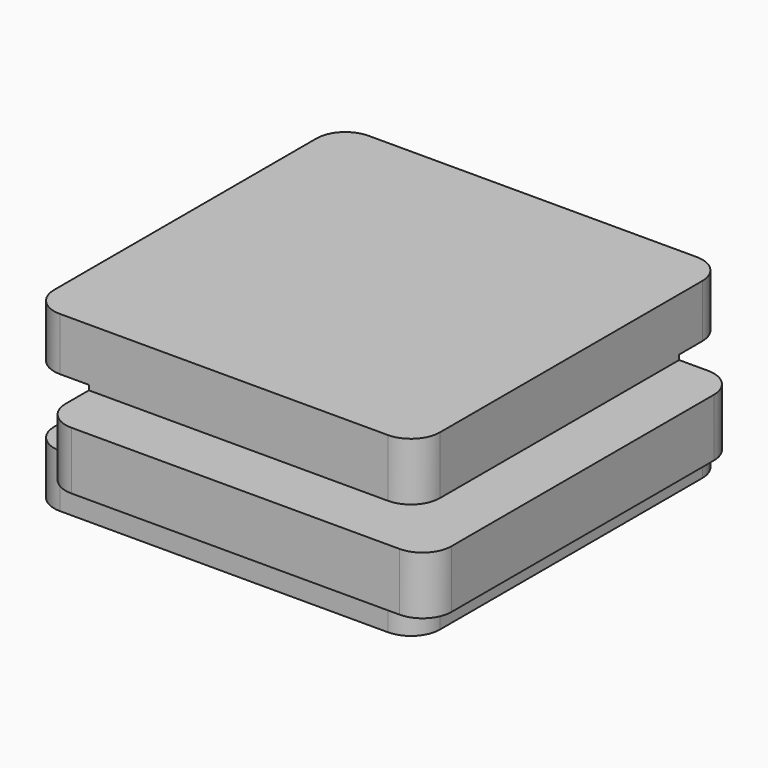
from build123d import *

# Parameters (mm, degrees)
F0_W     = 14
F0_H     = 3
F0_W_2   = 3
F1_DEPTH = 20
F2_DEPTH = 3
F3_W     = 3
F3_H     = 3
F4_DEPTH = 100
F5_W     = 3
F5_H     = 3.5
F6_DEPTH = 100
F7_R     = 1.5


with BuildPart() as f1:
    # F0 (on Front) → F1 (new body)
    with BuildSketch(Plane.XZ):
        Polygon((10, 1.5), (10, 4.5), (-10, 4.5), (-10, 1.5), (-7, 1.5), (7, 1.5), align=None)
        Rectangle(F0_W, F0_H)
        with Locations((11.5, 0)):
            Rectangle(F0_W_2, F0_H)
        with Locations((8.5, 0)):
            Rectangle(F0_W_2, F0_H)
        with Locations((-8.5, 0)):
            Rectangle(F0_W_2, F0_H)
        Polygon((10, -4.5), (10, -1.5), (7, -1.5), (-7, -1.5), (-10, -1.5), (-10, -4.5), align=None)
    extrude(amount=-F1_DEPTH)

    # F0 (on Front) → F2 (join)
    with BuildSketch(Plane.XZ):
        with Locations((-8.5, 0)):
            Rectangle(F0_W_2, F0_H)
        Rectangle(F0_W, F0_H)
        with Locations((8.5, 0)):
            Rectangle(F0_W_2, F0_H)
        with Locations((11.5, 0)):
            Rectangle(F0_W_2, F0_H)
    extrude(amount=F2_DEPTH)

    # F3 (on face) → F4 (cut)
    with BuildSketch(Plane.YZ.offset(13)):
        Polygon((23, -1.75), (23, 1.75), (17, 1.75), (17, 1.5), (20, 1.5), (20, -1.5), (17, -1.5), (17, -1.75), align=None)
        with Locations((18.5, 0)):
            Rectangle(F3_W, F3_H)
    extrude(amount=-F4_DEPTH, mode=Mode.SUBTRACT)

    # F5 (on face) → F6 (cut)
    with BuildSketch(Plane(origin=(0, 17, 0), x_dir=(-1, 0, 0), z_dir=(0, 1, 0))):
        with Locations((11.5, 0)):
            Rectangle(F5_W, F5_H)
        with Locations((8.5, 0)):
            Rectangle(F5_W, F5_H)
    extrude(amount=-F6_DEPTH, mode=Mode.SUBTRACT)

    # F7
    f7_edges = [f1.edges().sort_by_distance(p)[0] for p in [
        (-7, -3, 0),
        (13, -3, 0),
        (10, 0, 3),
        (10, 0, -3),
        (-10, 0, -3.125),
        (-10, 0, 3.125),
        (-7, 17, 0),
        (-10, 20, 3.125),
        (-10, 20, -3.125),
        (13, 17, 0),
        (10, 20, 3.125),
        (10, 20, -3.125),
    ]]
    fillet(f7_edges, radius=F7_R)


solid = f1.part
